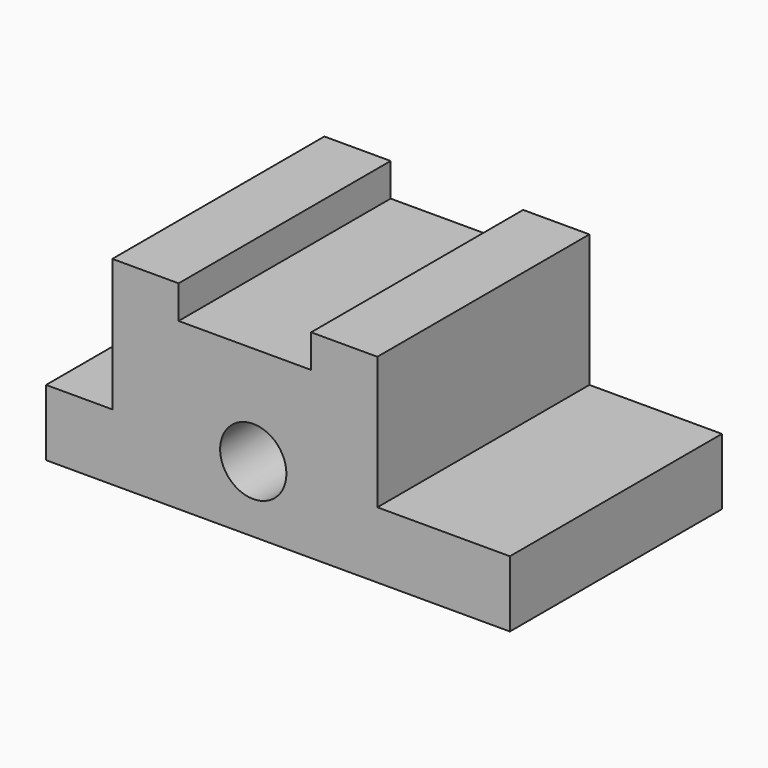
from build123d import *

# Parameters (mm, degrees)
F0_W     = 88.9
F0_H     = 38.1
F1_DEPTH = 50.8
F2_W     = 12.7
F2_H     = 25.4
F3_DEPTH = 50.801
F4_W     = 25.4
F4_H     = 25.4
F5_DEPTH = 50.801
F6_R     = 6.35
F7_DEPTH = 50.801
F8_W     = 25.4
F8_H     = 50.8
F9_DEPTH = 6.35


with BuildPart() as f1:
    # F0 (on Front) → F1 (new body)
    with BuildSketch(Plane.XZ):
        Rectangle(F0_W, F0_H)
    extrude(amount=F1_DEPTH)

    # F2 (on face) → F3 (cut, through all)
    with BuildSketch(Plane.XZ.offset(50.8)):
        with Locations((-38.1, 6.35)):
            Rectangle(F2_W, F2_H)
    extrude(amount=-F3_DEPTH, mode=Mode.SUBTRACT)

    # F4 (on face) → F5 (cut, through all)
    with BuildSketch(Plane.XZ.offset(50.8)):
        with Locations((31.75, 6.35)):
            Rectangle(F4_W, F4_H)
    extrude(amount=-F5_DEPTH, mode=Mode.SUBTRACT)

    # F6 (on face) → F7 (cut, through all)
    with BuildSketch(Plane.XZ.offset(50.8)):
        with Locations((-4.736888, -6.35)):
            Circle(F6_R)
    extrude(amount=-F7_DEPTH, mode=Mode.SUBTRACT)

    # F8 (on face) → F9 (cut)
    with BuildSketch(Plane.XY.offset(19.05)):
        with Locations((-6.35, -25.4)):
            Rectangle(F8_W, F8_H)
    extrude(amount=-F9_DEPTH, mode=Mode.SUBTRACT)


solid = f1.part
